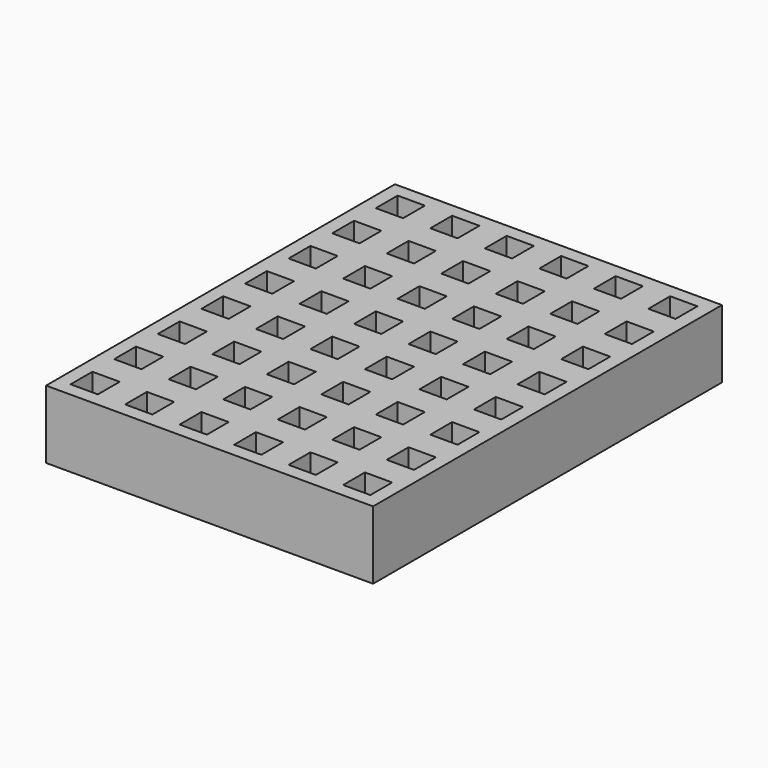
from build123d import *

# Parameters (mm, degrees)
F0_W     = 120
F0_H     = 160
F0_W_2   = 10
F0_H_2   = 10
F1_DEPTH = 25


with BuildPart() as f1:
    # F0 (on Top) → F1 (new body)
    with BuildSketch(Plane.XY):
        Rectangle(F0_W, F0_H)
        with Locations((-50, -70)):
            Rectangle(F0_W_2, F0_H_2, mode=Mode.SUBTRACT)
        with Locations((-50, -50)):
            Rectangle(F0_W_2, F0_H_2, mode=Mode.SUBTRACT)
        with Locations((-30, -70)):
            Rectangle(F0_W_2, F0_H_2, mode=Mode.SUBTRACT)
        with Locations((-10, -70)):
            Rectangle(F0_W_2, F0_H_2, mode=Mode.SUBTRACT)
        with Locations((-30, -50)):
            Rectangle(F0_W_2, F0_H_2, mode=Mode.SUBTRACT)
        with Locations((-10, -50)):
            Rectangle(F0_W_2, F0_H_2, mode=Mode.SUBTRACT)
        with Locations((-50, -30)):
            Rectangle(F0_W_2, F0_H_2, mode=Mode.SUBTRACT)
        with Locations((-50, -10)):
            Rectangle(F0_W_2, F0_H_2, mode=Mode.SUBTRACT)
        with Locations((-30, -30)):
            Rectangle(F0_W_2, F0_H_2, mode=Mode.SUBTRACT)
        with Locations((-10, -30)):
            Rectangle(F0_W_2, F0_H_2, mode=Mode.SUBTRACT)
        with Locations((-30, -10)):
            Rectangle(F0_W_2, F0_H_2, mode=Mode.SUBTRACT)
        with Locations((-10, -10)):
            Rectangle(F0_W_2, F0_H_2, mode=Mode.SUBTRACT)
        with Locations((10, -70)):
            Rectangle(F0_W_2, F0_H_2, mode=Mode.SUBTRACT)
        with Locations((10, -50)):
            Rectangle(F0_W_2, F0_H_2, mode=Mode.SUBTRACT)
        with Locations((30, -70)):
            Rectangle(F0_W_2, F0_H_2, mode=Mode.SUBTRACT)
        with Locations((50, -70)):
            Rectangle(F0_W_2, F0_H_2, mode=Mode.SUBTRACT)
        with Locations((30, -50)):
            Rectangle(F0_W_2, F0_H_2, mode=Mode.SUBTRACT)
        with Locations((50, -50)):
            Rectangle(F0_W_2, F0_H_2, mode=Mode.SUBTRACT)
        with Locations((10, -30)):
            Rectangle(F0_W_2, F0_H_2, mode=Mode.SUBTRACT)
        with Locations((10, -10)):
            Rectangle(F0_W_2, F0_H_2, mode=Mode.SUBTRACT)
        with Locations((30, -30)):
            Rectangle(F0_W_2, F0_H_2, mode=Mode.SUBTRACT)
        with Locations((50, -30)):
            Rectangle(F0_W_2, F0_H_2, mode=Mode.SUBTRACT)
        with Locations((30, -10)):
            Rectangle(F0_W_2, F0_H_2, mode=Mode.SUBTRACT)
        with Locations((50, -10)):
            Rectangle(F0_W_2, F0_H_2, mode=Mode.SUBTRACT)
        with Locations((-50, 10)):
            Rectangle(F0_W_2, F0_H_2, mode=Mode.SUBTRACT)
        with Locations((-50, 30)):
            Rectangle(F0_W_2, F0_H_2, mode=Mode.SUBTRACT)
        with Locations((-30, 10)):
            Rectangle(F0_W_2, F0_H_2, mode=Mode.SUBTRACT)
        with Locations((-10, 10)):
            Rectangle(F0_W_2, F0_H_2, mode=Mode.SUBTRACT)
        with Locations((-30, 30)):
            Rectangle(F0_W_2, F0_H_2, mode=Mode.SUBTRACT)
        with Locations((-10, 30)):
            Rectangle(F0_W_2, F0_H_2, mode=Mode.SUBTRACT)
        with Locations((-50, 50)):
            Rectangle(F0_W_2, F0_H_2, mode=Mode.SUBTRACT)
        with Locations((-50, 70)):
            Rectangle(F0_W_2, F0_H_2, mode=Mode.SUBTRACT)
        with Locations((-30, 50)):
            Rectangle(F0_W_2, F0_H_2, mode=Mode.SUBTRACT)
        with Locations((-10, 50)):
            Rectangle(F0_W_2, F0_H_2, mode=Mode.SUBTRACT)
        with Locations((-30, 70)):
            Rectangle(F0_W_2, F0_H_2, mode=Mode.SUBTRACT)
        with Locations((-10, 70)):
            Rectangle(F0_W_2, F0_H_2, mode=Mode.SUBTRACT)
        with Locations((10, 10)):
            Rectangle(F0_W_2, F0_H_2, mode=Mode.SUBTRACT)
        with Locations((10, 30)):
            Rectangle(F0_W_2, F0_H_2, mode=Mode.SUBTRACT)
        with Locations((30, 10)):
            Rectangle(F0_W_2, F0_H_2, mode=Mode.SUBTRACT)
        with Locations((50, 10)):
            Rectangle(F0_W_2, F0_H_2, mode=Mode.SUBTRACT)
        with Locations((30, 30)):
            Rectangle(F0_W_2, F0_H_2, mode=Mode.SUBTRACT)
        with Locations((50, 30)):
            Rectangle(F0_W_2, F0_H_2, mode=Mode.SUBTRACT)
        with Locations((10, 50)):
            Rectangle(F0_W_2, F0_H_2, mode=Mode.SUBTRACT)
        with Locations((10, 70)):
            Rectangle(F0_W_2, F0_H_2, mode=Mode.SUBTRACT)
        with Locations((30, 50)):
            Rectangle(F0_W_2, F0_H_2, mode=Mode.SUBTRACT)
        with Locations((50, 50)):
            Rectangle(F0_W_2, F0_H_2, mode=Mode.SUBTRACT)
        with Locations((30, 70)):
            Rectangle(F0_W_2, F0_H_2, mode=Mode.SUBTRACT)
        with Locations((50, 70)):
            Rectangle(F0_W_2, F0_H_2, mode=Mode.SUBTRACT)
    extrude(amount=F1_DEPTH)


solid = f1.part
